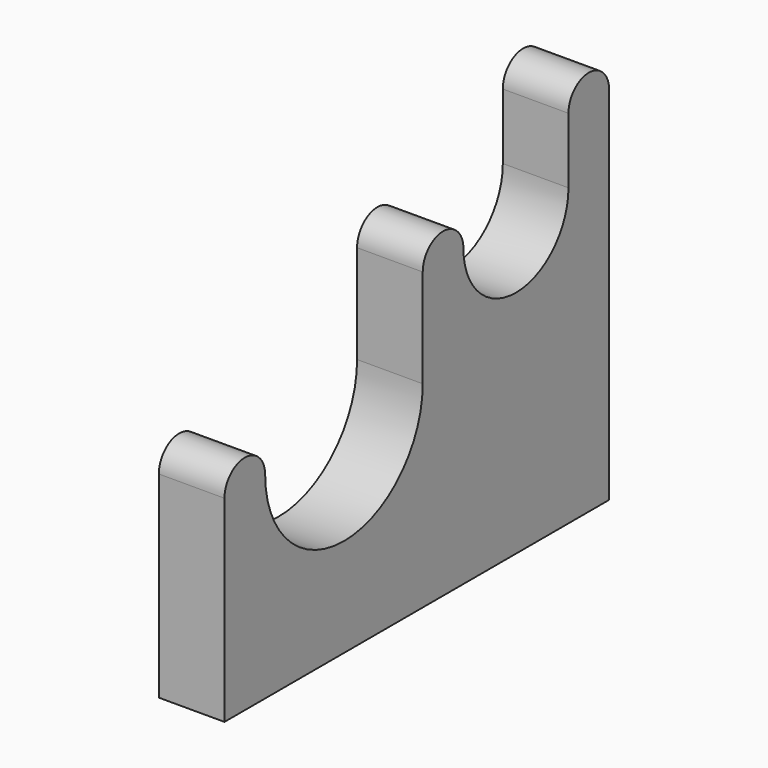
from build123d import *

# Parameters (mm, degrees)
F1_DEPTH = 12.7


with BuildPart() as f1:
    # F0 (on Right) → F1 (new body)
    with BuildSketch(Plane.YZ):
        with BuildLine():
            Line((0, 38.1), (0, 0))
            Line((0, 0), (93.0275, 0))
            Line((93.0275, 0), (93.0275, 69.85))
            ThreePointArc((93.0275, 69.85), (88.10625, 74.77125), (83.185, 69.85))
            Line((83.185, 69.85), (83.185, 57.15))
            ThreePointArc((83.185, 57.15), (70.485, 44.45), (57.785, 57.15))
            ThreePointArc((57.785, 57.15), (52.86375, 62.07125), (47.9425, 57.15))
            Line((47.9425, 57.15), (47.9425, 38.1))
            ThreePointArc((47.9425, 38.1), (28.8925, 19.05), (9.8425, 38.1))
            ThreePointArc((9.8425, 38.1), (4.92125, 43.02125), (0, 38.1))
        make_face()
    extrude(amount=F1_DEPTH)


solid = f1.part
